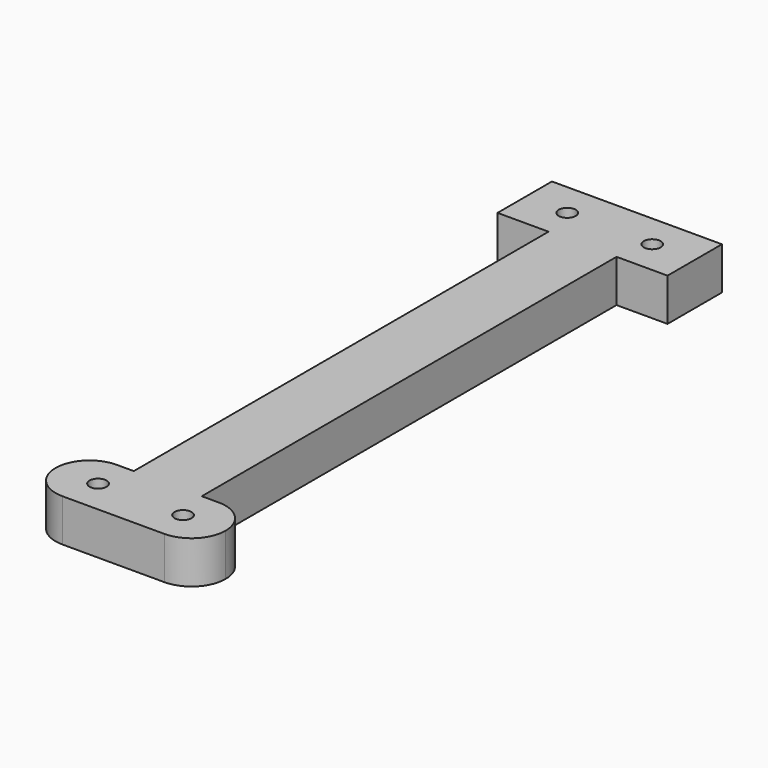
from build123d import *

# Parameters (mm, degrees)
F0_R     = 1
F1_DEPTH = 5


with BuildPart() as f1:
    # F0 (on Top) → F1 (new body)
    with BuildSketch(Plane.XY):
        Polygon((0, 8), (0, 0), (6, 0), (6, -30.5), (14, -30.5), (14, 0), (20, 0), (20, 8), align=None)
        with Locations((5, 4)):
            Circle(F0_R, mode=Mode.SUBTRACT)
        with Locations((15, 4)):
            Circle(F0_R, mode=Mode.SUBTRACT)
        with BuildLine():
            Line((14, -30.5), (6, -30.5))
            Line((6, -30.5), (6, -61))
            Line((6, -61), (4, -61))
            ThreePointArc((4, -61), (1.171573, -62.171573), (0, -65))
            ThreePointArc((0, -65), (1.171573, -67.828427), (4, -69))
            Line((4, -69), (16, -69))
            ThreePointArc((16, -69), (18.828427, -67.828427), (20, -65))
            ThreePointArc((20, -65), (18.828427, -62.171573), (16, -61))
            Line((16, -61), (14, -61))
            Line((14, -61), (14, -30.5))
        make_face()
        with Locations((5, -65)):
            Circle(F0_R, mode=Mode.SUBTRACT)
        with Locations((15, -65)):
            Circle(F0_R, mode=Mode.SUBTRACT)
    extrude(amount=F1_DEPTH)


solid = f1.part
